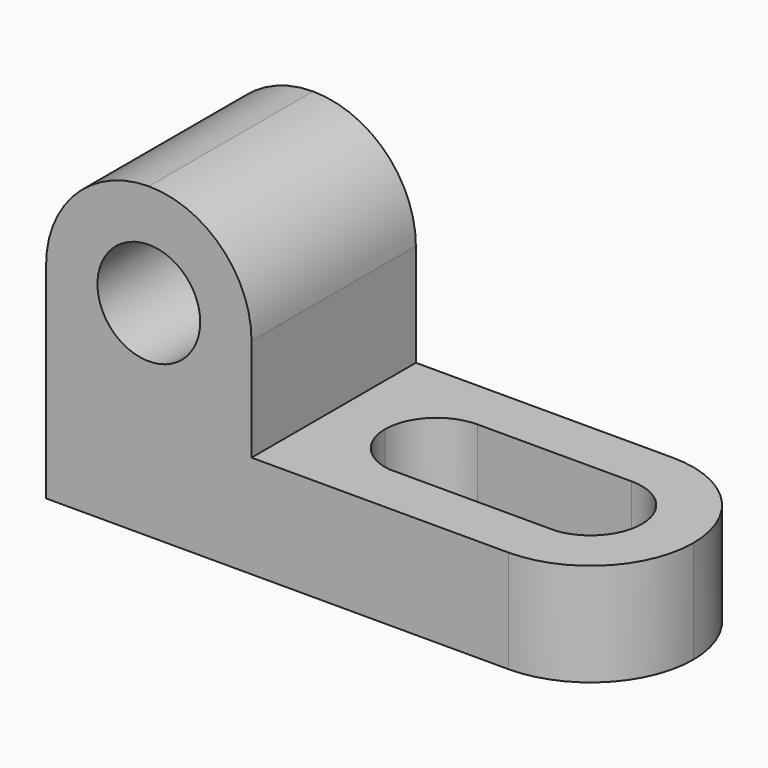
from build123d import *

# Parameters (mm, degrees)
F1_DEPTH = 25.4
F2_DEPTH = 25.4
F4_DEPTH = 12.701
F6_DEPTH = 12.701
F8_DEPTH = 25.401


with BuildPart() as f1:
    # F0 (on Front) → F1 (new body)
    with BuildSketch(Plane.XZ):
        Polygon((-69.85, 0), (0, 0), (0, 12.7), (-44.45, 12.7), (-44.45, 38.1), (-69.85, 38.1), align=None)
    extrude(amount=F1_DEPTH)

    # F0 (on Front) → F2 (join)
    with BuildSketch(Plane.XZ):
        Polygon((-69.85, 0), (0, 0), (0, 12.7), (-44.45, 12.7), (-44.45, 38.1), (-69.85, 38.1), align=None)
    extrude(amount=F2_DEPTH)

    # F3 (on face) → F4 (cut, through all)
    with BuildSketch(Plane.XY.offset(12.7)):
        with BuildLine():
            ThreePointArc((-25.4, -12.7), (-27.2598719395, -8.2098719395), (-31.75, -6.35))
            Line((-31.75, -6.35), (-31.75, -18.9960841089))
            Line((-31.75, -18.9960841089), (-30.9242731123, -18.9960841089))
            ThreePointArc((-30.9242731123, -18.9960841089), (-26.9768529387, -16.8880266393), (-25.4, -12.7))
        make_face()
        with BuildLine():
            ThreePointArc((-31.75, -6.35), (-36.2401280605, -8.2098719395), (-38.1, -12.7))
            ThreePointArc((-38.1, -12.7), (-36.5231470613, -16.8880266393), (-32.5757268877, -18.9960841089))
            Line((-32.5757268877, -18.9960841089), (-31.75, -18.9960841089))
            Line((-31.75, -18.9960841089), (-31.75, -6.35))
        make_face()
        with BuildLine():
            Line((-12.7, -18.9960841089), (-12.7, -6.35))
            ThreePointArc((-12.7, -6.35), (-19.0365066911, -12.2862573818), (-13.5257268877, -18.9960841089))
            Line((-13.5257268877, -18.9960841089), (-12.7, -18.9960841089))
        make_face()
        with BuildLine():
            Line((-12.7, -6.35), (-31.75, -6.35))
            ThreePointArc((-31.75, -6.35), (-27.2598719395, -8.2098719395), (-25.4, -12.7))
            ThreePointArc((-25.4, -12.7), (-26.9768529387, -16.8880266393), (-30.9242731123, -18.9960841089))
            Line((-30.9242731123, -18.9960841089), (-13.5257268877, -18.9960841089))
            ThreePointArc((-13.5257268877, -18.9960841089), (-19.0365066911, -12.2862573818), (-12.7, -6.35))
        make_face()
        with BuildLine():
            ThreePointArc((-6.35, -12.7), (-8.2098719395, -8.2098719395), (-12.7, -6.35))
            Line((-12.7, -6.35), (-12.7, -18.9960841089))
            Line((-12.7, -18.9960841089), (-11.8742731123, -18.9960841089))
            ThreePointArc((-11.8742731123, -18.9960841089), (-7.9268529387, -16.8880266393), (-6.35, -12.7))
        make_face()
    extrude(amount=-F4_DEPTH, mode=Mode.SUBTRACT)

    # F5 (on face) → F6 (cut, through all)
    with BuildSketch(Plane.XY.offset(12.7)):
        with BuildLine():
            Line((0, -25.4), (0, -12.7))
            ThreePointArc((0, -12.7), (-3.7197438789, -21.6802561211), (-12.7, -25.4))
            Line((-12.7, -25.4), (0, -25.4))
        make_face()
        with BuildLine():
            Line((0, 0), (-12.7, 0))
            ThreePointArc((-12.7, 0), (-3.7197438789, -3.7197438789), (0, -12.7))
            Line((0, -12.7), (0, 0))
        make_face()
    extrude(amount=-F6_DEPTH, mode=Mode.SUBTRACT)

    # F7 (on face) → F8 (cut, through all)
    with BuildSketch(Plane.XZ.offset(25.4)):
        with BuildLine():
            ThreePointArc((-63.5, 25.4), (-57.15, 19.05), (-50.8, 25.4))
            Line((-50.8, 25.4), (-63.5, 25.4))
        make_face()
        with BuildLine():
            Line((-63.5, 25.4), (-50.8, 25.4))
            ThreePointArc((-50.8, 25.4), (-57.15, 31.75), (-63.5, 25.4))
        make_face()
        with BuildLine():
            Line((-69.85, 38.1), (-69.85, 25.4))
            ThreePointArc((-69.85, 25.4), (-66.1302561211, 34.3802561211), (-57.15, 38.1))
            Line((-57.15, 38.1), (-69.85, 38.1))
        make_face()
        with BuildLine():
            ThreePointArc((-57.15, 38.1), (-48.1697438789, 34.3802561211), (-44.45, 25.4))
            Line((-44.45, 25.4), (-44.45, 38.1))
            Line((-44.45, 38.1), (-57.15, 38.1))
        make_face()
    extrude(amount=-F8_DEPTH, mode=Mode.SUBTRACT)


solid = f1.part
